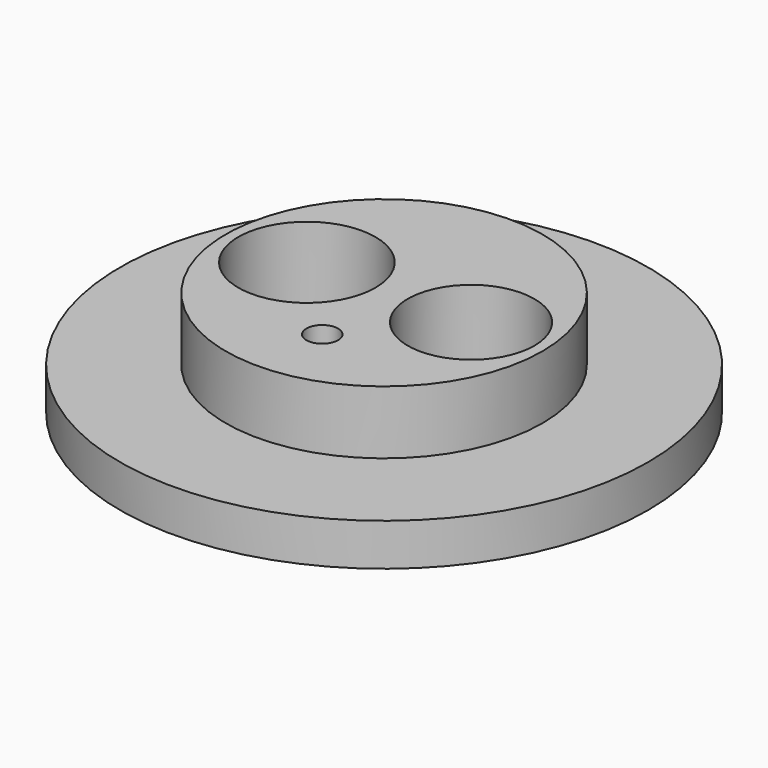
from build123d import *

# Parameters (mm, degrees)
F0_R     = 12.5
F0_R_2   = 8
F0_R_3   = 0.75
F0_R_4   = 3.25
F0_R_5   = 3
F1_DEPTH = 5
F2_R     = 12.5
F2_R_2   = 7.5
F3_DEPTH = 3


with BuildPart() as f1:
    # F0 (on Top) → F1 (new body)
    with BuildSketch(Plane.XY):
        with Locations((-6.33422, -27.302897)):
            Circle(F0_R)
        with Locations((-6.33422, -27.302897)):
            Circle(F0_R_2, mode=Mode.SUBTRACT)
        with Locations((-6.33422, -27.302897)):
            Circle(F0_R_2)
        with Locations((-6.03989, -31.331569)):
            Circle(F0_R_3, mode=Mode.SUBTRACT)
        with Locations((-10.087657, -27.181711)):
            Circle(F0_R_4, mode=Mode.SUBTRACT)
        with Locations((-2.347634, -27.13871)):
            Circle(F0_R_5, mode=Mode.SUBTRACT)
    extrude(amount=F1_DEPTH)

    # F2 (on face) → F3 (cut)
    with BuildSketch(Plane.XY.offset(5)):
        with Locations((-6.33422, -27.302897)):
            Circle(F2_R)
        with Locations((-6.33422, -27.302897)):
            Circle(F2_R_2, mode=Mode.SUBTRACT)
    extrude(amount=-F3_DEPTH, mode=Mode.SUBTRACT)


solid = f1.part
